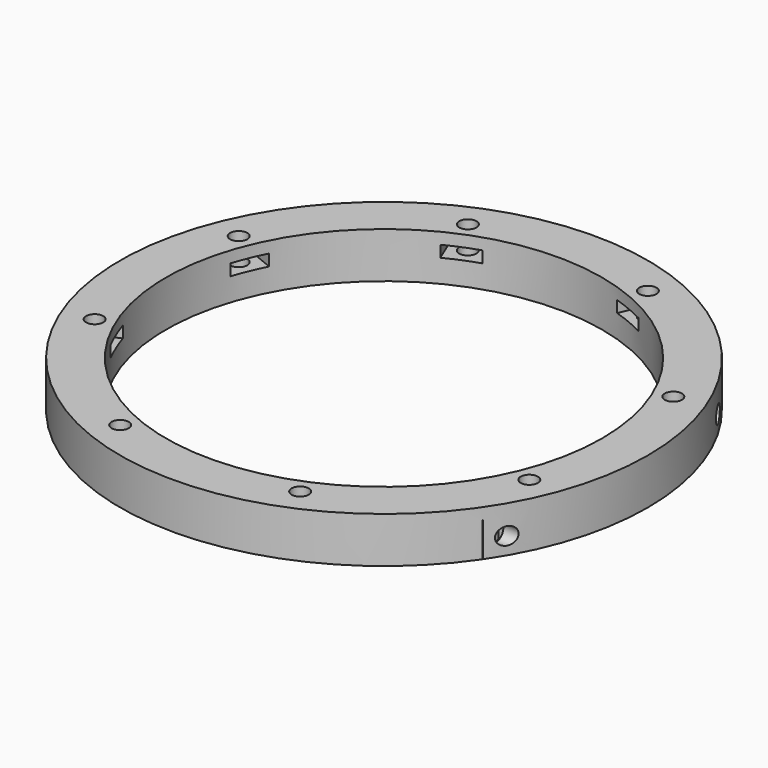
from build123d import *

# Parameters (mm, degrees)
CYLINDER1484_R               = 1.5
CYLINDER1484_DEPTH           = 60
CYLINDER1486_R               = 1.5
CYLINDER1486_DEPTH           = 60
CYLINDER1483_R               = 1.5
CYLINDER1483_DEPTH           = 60
CYLINDER1485_R               = 1.5
CYLINDER1485_DEPTH           = 60
BOX632_W                     = 2
BOX632_H                     = 6
BOX632_DEPTH                 = 6
BOX631_W                     = 2
BOX631_H                     = 6
BOX631_DEPTH                 = 6
BOX630_W                     = 2
BOX630_H                     = 6
BOX630_DEPTH                 = 6
BOX629_W                     = 2
BOX629_H                     = 6
BOX629_DEPTH                 = 6
BOX622_W                     = 8
BOX622_H                     = 6
BOX622_DEPTH                 = 2
BOX628_W                     = 8
BOX628_H                     = 6
BOX628_DEPTH                 = 2
BOX628_PLACEMENT_ANGLE       = 135
BOX623_W                     = 8
BOX623_H                     = 6
BOX623_DEPTH                 = 2
BOX625_W                     = 8
BOX625_H                     = 6
BOX625_DEPTH                 = 2
BOX625_PLACEMENT_ANGLE       = 225
BOX626_W                     = 8
BOX626_H                     = 6
BOX626_DEPTH                 = 2
BOX627_W                     = 8
BOX627_H                     = 6
BOX627_DEPTH                 = 2
BOX627_PLACEMENT_ANGLE       = 45
BOX621_W                     = 8
BOX621_H                     = 6
BOX621_DEPTH                 = 2
BOX624_W                     = 8
BOX624_H                     = 6
BOX624_DEPTH                 = 2
BOX624_PLACEMENT_ANGLE       = 45
COMPOUND993_PLACEMENT_ANGLE  = 22.5
CYLINDER1482_R               = 1.5
CYLINDER1482_DEPTH           = 60
CYLINDER1481_R               = 1.5
CYLINDER1481_DEPTH           = 60
CYLINDER1481_PLACEMENT_ANGLE = 135
CYLINDER1476_R               = 1.5
CYLINDER1476_DEPTH           = 60
CYLINDER1477_R               = 1.5
CYLINDER1477_DEPTH           = 60
CYLINDER1477_PLACEMENT_ANGLE = 225
CYLINDER1480_R               = 1.5
CYLINDER1480_DEPTH           = 60
CYLINDER1478_R               = 1.5
CYLINDER1478_DEPTH           = 60
CYLINDER1478_PLACEMENT_ANGLE = 45
CYLINDER1475_R               = 1.5
CYLINDER1475_DEPTH           = 60
CYLINDER1479_R               = 1.5
CYLINDER1479_DEPTH           = 60
CYLINDER1479_PLACEMENT_ANGLE = 45
COMPOUND991_PLACEMENT_ANGLE  = 22.5
TUBE135_R                    = 46
TUBE135_R_2                  = 38
TUBE135_DEPTH                = 8


with BuildPart() as obj1:
    # Cylinder1484 → Cylinder1484 (new body)
    with BuildSketch(Plane(origin=(32, -23, -5), x_dir=(0, 0, -1), z_dir=(1, 0, 0))):
        Circle(CYLINDER1484_R)
    extrude(amount=CYLINDER1484_DEPTH)


with BuildPart() as obj2:
    # Cylinder1486 → Cylinder1486 (new body)
    with BuildSketch(Plane(origin=(28, 51, 7), x_dir=(0, 0, -1), z_dir=(1, 0, 0))):
        Circle(CYLINDER1486_R)
    extrude(amount=CYLINDER1486_DEPTH)


with BuildPart() as obj3:
    # Cylinder1483 → Cylinder1483 (new body)
    with BuildSketch(Plane(origin=(28, -51, 7), x_dir=(0, 0, -1), z_dir=(1, 0, 0))):
        Circle(CYLINDER1483_R)
    extrude(amount=CYLINDER1483_DEPTH)


with BuildPart() as compound992:
    # Cylinder1485 → Cylinder1485 (new body)
    with BuildSketch(Plane(origin=(32, 23, -5), x_dir=(0, 0, -1), z_dir=(1, 0, 0))):
        Circle(CYLINDER1485_R)
    extrude(amount=CYLINDER1485_DEPTH)

    # Compound992: union obj1, obj2, obj3
    add(obj1.part)
    add(obj2.part)
    add(obj3.part)


with BuildPart() as krychle632:
    # Box632 → Box632 (new body)
    with BuildSketch(Plane(origin=(36, -26, -8), x_dir=(1, 0, 0), z_dir=(0, 0, 1))):
        with Locations((1, 3)):
            Rectangle(BOX632_W, BOX632_H)
    extrude(amount=BOX632_DEPTH)


with BuildPart() as krychle631:
    # Box631 → Box631 (new body)
    with BuildSketch(Plane(origin=(32, 48, 4), x_dir=(1, 0, 0), z_dir=(0, 0, 1))):
        with Locations((1, 3)):
            Rectangle(BOX631_W, BOX631_H)
    extrude(amount=BOX631_DEPTH)


with BuildPart() as krychle630:
    # Box630 → Box630 (new body)
    with BuildSketch(Plane(origin=(32, -54, 4), x_dir=(1, 0, 0), z_dir=(0, 0, 1))):
        with Locations((1, 3)):
            Rectangle(BOX630_W, BOX630_H)
    extrude(amount=BOX630_DEPTH)


with BuildPart() as compound994:
    # Box629 → Box629 (new body)
    with BuildSketch(Plane(origin=(36, 20, -8), x_dir=(1, 0, 0), z_dir=(0, 0, 1))):
        with Locations((1, 3)):
            Rectangle(BOX629_W, BOX629_H)
    extrude(amount=BOX629_DEPTH)

    # Compound994: union Krychle632, Krychle631, Krychle630
    add(krychle632.part)
    add(krychle631.part)
    add(krychle630.part)


with BuildPart() as krychle622:
    # Box622 → Box622 (new body)
    with BuildSketch(Plane(origin=(3, 37, -4), x_dir=(0, 1, 0), z_dir=(0, 0, 1))):
        with Locations((4, 3)):
            Rectangle(BOX622_W, BOX622_H)
    extrude(amount=BOX622_DEPTH)


with BuildPart() as krychle628:
    # Box628 → Box628 (new body)
    with BuildSketch(Plane.XY):
        with Locations((4, 3)):
            Rectangle(BOX628_W, BOX628_H)
    extrude(amount=BOX628_DEPTH)


with BuildPart() as krychle628_1:
    # Box628 placement: moved
    add(krychle628.part.moved(Location((-24.041631, 28.284271, -4))).rotate(Axis((-24.041631, 28.284271, -4), (0, 0, 1)), BOX628_PLACEMENT_ANGLE))


with BuildPart() as krychle623:
    # Box623 → Box623 (new body)
    with BuildSketch(Plane(origin=(-37, 3, -4), x_dir=(-1, 0, 0), z_dir=(0, 0, 1))):
        with Locations((4, 3)):
            Rectangle(BOX623_W, BOX623_H)
    extrude(amount=BOX623_DEPTH)


with BuildPart() as krychle625:
    # Box625 → Box625 (new body)
    with BuildSketch(Plane.XY):
        with Locations((4, 3)):
            Rectangle(BOX625_W, BOX625_H)
    extrude(amount=BOX625_DEPTH)


with BuildPart() as krychle625_1:
    # Box625 placement: moved
    add(krychle625.part.moved(Location((-28.284271, -24.041631, -4))).rotate(Axis((-28.284271, -24.041631, -4), (0, 0, 1)), BOX625_PLACEMENT_ANGLE))


with BuildPart() as krychle626:
    # Box626 → Box626 (new body)
    with BuildSketch(Plane(origin=(-3, -37, -4), x_dir=(0, -1, 0), z_dir=(0, 0, 1))):
        with Locations((4, 3)):
            Rectangle(BOX626_W, BOX626_H)
    extrude(amount=BOX626_DEPTH)


with BuildPart() as krychle627:
    # Box627 → Box627 (new body)
    with BuildSketch(Plane.XY):
        with Locations((4, 3)):
            Rectangle(BOX627_W, BOX627_H)
    extrude(amount=BOX627_DEPTH)


with BuildPart() as krychle627_1:
    # Box627 placement: moved
    add(krychle627.part.moved(Location((24.041631, -28.284271, -4))).rotate(Axis((24.041631, -28.284271, -4), (0, 0, -1)), BOX627_PLACEMENT_ANGLE))


with BuildPart() as krychle621:
    # Box621 → Box621 (new body)
    with BuildSketch(Plane(origin=(37, -3, -4), x_dir=(1, 0, 0), z_dir=(0, 0, 1))):
        with Locations((4, 3)):
            Rectangle(BOX621_W, BOX621_H)
    extrude(amount=BOX621_DEPTH)


with BuildPart() as compound993:
    # Box624 → Box624 (new body)
    with BuildSketch(Plane.XY):
        with Locations((4, 3)):
            Rectangle(BOX624_W, BOX624_H)
    extrude(amount=BOX624_DEPTH)


with BuildPart() as compound993_1:
    # Box624 placement: moved
    add(compound993.part.moved(Location((28.284271, 24.041631, -4))).rotate(Axis((28.284271, 24.041631, -4), (0, 0, 1)), BOX624_PLACEMENT_ANGLE))

    # Compound993: union Krychle622, Krychle628, Krychle623, Krychle625, Krychle626, Krychle627, Krychle621
    add(krychle622.part)
    add(krychle628_1.part)
    add(krychle623.part)
    add(krychle625_1.part)
    add(krychle626.part)
    add(krychle627_1.part)
    add(krychle621.part)


with BuildPart() as compound993_2:
    # Compound993 placement: moved
    add(compound993_1.part.rotate(Axis((0, 0, 0), (0, 0, 1)), COMPOUND993_PLACEMENT_ANGLE))


with BuildPart() as obj4:
    # Cylinder1482 → Cylinder1482 (new body)
    with BuildSketch(Plane(origin=(0, 41, -54), x_dir=(0, 1, 0), z_dir=(0, 0, 1))):
        Circle(CYLINDER1482_R)
    extrude(amount=CYLINDER1482_DEPTH)


with BuildPart() as obj5:
    # Cylinder1481 → Cylinder1481 (new body)
    with BuildSketch(Plane.XY):
        Circle(CYLINDER1481_R)
    extrude(amount=CYLINDER1481_DEPTH)


with BuildPart() as obj5_1:
    # Cylinder1481 placement: moved
    add(obj5.part.moved(Location((-28.991378, 28.991378, -54))).rotate(Axis((-28.991378, 28.991378, -54), (0, 0, 1)), CYLINDER1481_PLACEMENT_ANGLE))


with BuildPart() as obj6:
    # Cylinder1476 → Cylinder1476 (new body)
    with BuildSketch(Plane(origin=(-41, 0, -54), x_dir=(-1, 0, 0), z_dir=(0, 0, 1))):
        Circle(CYLINDER1476_R)
    extrude(amount=CYLINDER1476_DEPTH)


with BuildPart() as obj7:
    # Cylinder1477 → Cylinder1477 (new body)
    with BuildSketch(Plane.XY):
        Circle(CYLINDER1477_R)
    extrude(amount=CYLINDER1477_DEPTH)


with BuildPart() as obj7_1:
    # Cylinder1477 placement: moved
    add(obj7.part.moved(Location((-28.991378, -28.991378, -54))).rotate(Axis((-28.991378, -28.991378, -54), (0, 0, 1)), CYLINDER1477_PLACEMENT_ANGLE))


with BuildPart() as obj8:
    # Cylinder1480 → Cylinder1480 (new body)
    with BuildSketch(Plane(origin=(0, -41, -54), x_dir=(0, -1, 0), z_dir=(0, 0, 1))):
        Circle(CYLINDER1480_R)
    extrude(amount=CYLINDER1480_DEPTH)


with BuildPart() as obj9:
    # Cylinder1478 → Cylinder1478 (new body)
    with BuildSketch(Plane.XY):
        Circle(CYLINDER1478_R)
    extrude(amount=CYLINDER1478_DEPTH)


with BuildPart() as obj9_1:
    # Cylinder1478 placement: moved
    add(obj9.part.moved(Location((28.991378, -28.991378, -54))).rotate(Axis((28.991378, -28.991378, -54), (0, 0, -1)), CYLINDER1478_PLACEMENT_ANGLE))


with BuildPart() as obj10:
    # Cylinder1475 → Cylinder1475 (new body)
    with BuildSketch(Plane(origin=(41, 0, -54), x_dir=(1, 0, 0), z_dir=(0, 0, 1))):
        Circle(CYLINDER1475_R)
    extrude(amount=CYLINDER1475_DEPTH)


with BuildPart() as compound991:
    # Cylinder1479 → Cylinder1479 (new body)
    with BuildSketch(Plane.XY):
        Circle(CYLINDER1479_R)
    extrude(amount=CYLINDER1479_DEPTH)


with BuildPart() as compound991_1:
    # Cylinder1479 placement: moved
    add(compound991.part.moved(Location((28.991378, 28.991378, -54))).rotate(Axis((28.991378, 28.991378, -54), (0, 0, 1)), CYLINDER1479_PLACEMENT_ANGLE))

    # Compound991: union obj4, obj5, obj6, obj7, obj8, obj9, obj10
    add(obj4.part)
    add(obj5_1.part)
    add(obj6.part)
    add(obj7_1.part)
    add(obj8.part)
    add(obj9_1.part)
    add(obj10.part)


with BuildPart() as compound991_2:
    # Compound991 placement: moved
    add(compound991_1.part.rotate(Axis((0, 0, 0), (0, 0, 1)), COMPOUND991_PLACEMENT_ANGLE))


with BuildPart() as cut535:
    # Tube135 → Tube135 (new body)
    with BuildSketch(Plane.XY.offset(-8)):
        Circle(TUBE135_R)
        Circle(TUBE135_R_2, mode=Mode.SUBTRACT)
    extrude(amount=TUBE135_DEPTH)

    # Cut532: cut Compound991
    add(compound991_2.part, mode=Mode.SUBTRACT)

    # Cut533: cut Compound993
    add(compound993_2.part, mode=Mode.SUBTRACT)

    # Cut534: cut Compound994
    add(compound994.part, mode=Mode.SUBTRACT)

    # Cut535: cut Compound992
    add(compound992.part, mode=Mode.SUBTRACT)


with BuildPart() as cut535_1:
    # Cut535 placement: moved
    add(cut535.part.moved(Location((0, 0, 2))))


solid = cut535_1.part
